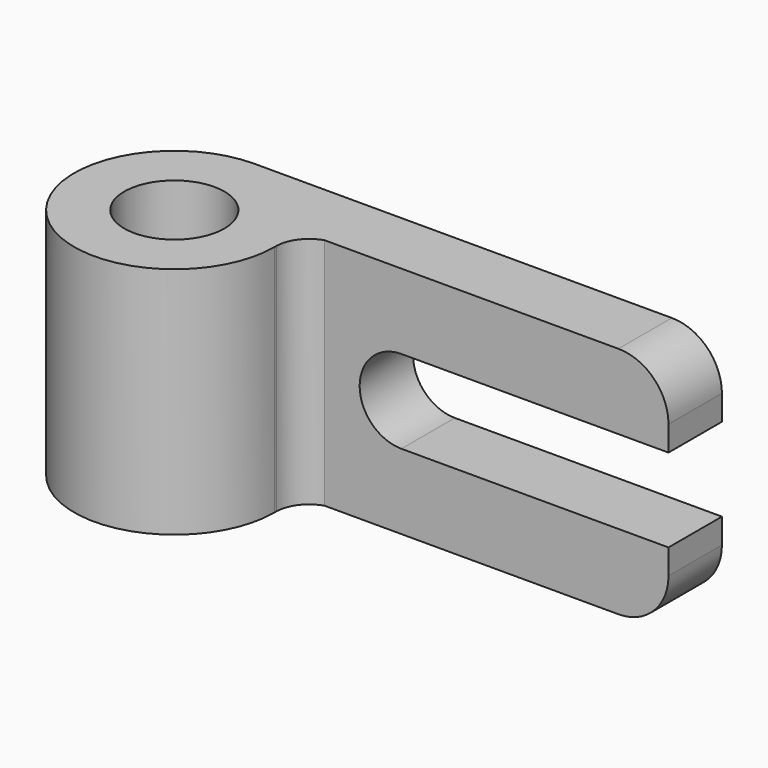
from build123d import *

# Parameters (mm, degrees)
F0_R     = 9.525
F1_DEPTH = 44.45
F3_DEPTH = 25.4


with BuildPart() as f1:
    # F0 (on Top) → F1 (new body)
    with BuildSketch(Plane.XY):
        with BuildLine():
            Line((88.9, 19.05), (0, 19.05))
            ThreePointArc((0, 19.05), (-13.470384, -13.470384), (19.05, 0))
            ThreePointArc((19.05, 0), (19.043512, 0.222277), (19.04481, 0.444644))
            ThreePointArc((19.04481, 0.444644), (20.313858, 4.107427), (23.475712, 6.35))
            ThreePointArc((23.475712, 6.35), (25.393079, 6.646389), (27.310446, 6.35))
            Line((27.310446, 6.35), (88.9, 6.35))
            Line((88.9, 6.35), (88.9, 19.05))
        make_face()
        Circle(F0_R, mode=Mode.SUBTRACT)
        with BuildLine():
            ThreePointArc((19.04481, 0.444644), (19.043512, 0.222277), (19.05, 0))
            ThreePointArc((19.05, 0), (19.048702, 0.222337), (19.04481, 0.444644))
        make_face()
        with BuildLine():
            ThreePointArc((27.310446, 6.35), (25.393079, 6.646389), (23.475712, 6.35))
            Line((23.475712, 6.35), (27.310446, 6.35))
        make_face()
    extrude(amount=F1_DEPTH)

    # F2 (on face) → F3 (cut)
    with BuildSketch(Plane.XZ.offset(-6.35)):
        with BuildLine():
            Line((88.9, 14.2875), (88.9, 30.1625))
            Line((88.9, 30.1625), (38.1, 30.1625))
            ThreePointArc((38.1, 30.1625), (30.1625, 22.225), (38.1, 14.2875))
            Line((38.1, 14.2875), (88.9, 14.2875))
        make_face()
        with BuildLine():
            Line((88.9, 34.925), (88.9, 44.45))
            Line((88.9, 44.45), (79.375, 44.45))
            ThreePointArc((79.375, 44.45), (86.110192, 41.660192), (88.9, 34.925))
        make_face()
        with BuildLine():
            Line((88.9, 0), (88.9, 9.525))
            ThreePointArc((88.9, 9.525), (86.110192, 2.789808), (79.375, 0))
            Line((79.375, 0), (88.9, 0))
        make_face()
    extrude(amount=-F3_DEPTH, mode=Mode.SUBTRACT)


solid = f1.part
